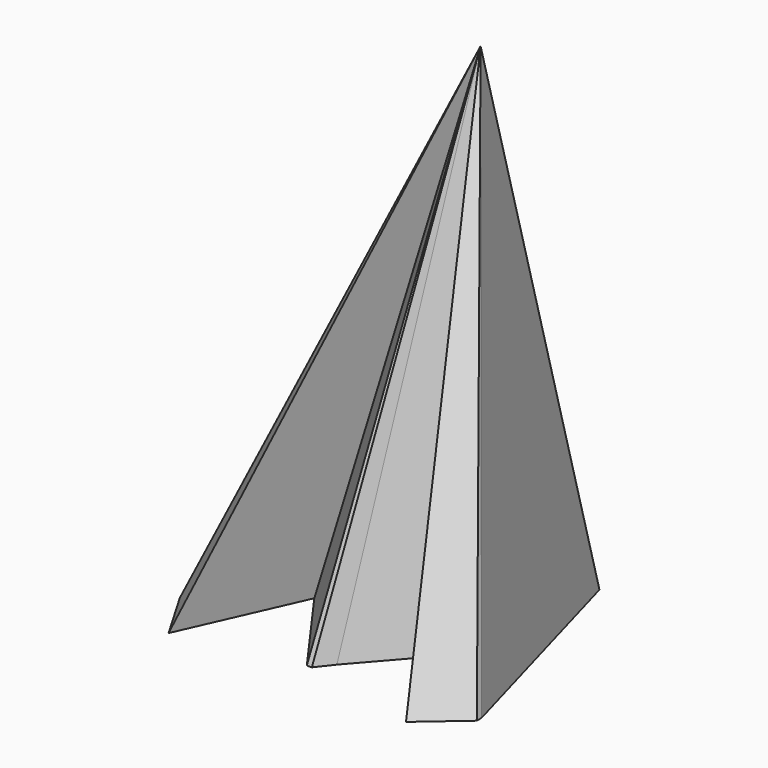
from build123d import *


with BuildPart() as f3:
    # F0 (on Top) → F3 section 0
    with BuildSketch(Plane.XY, mode=Mode.PRIVATE) as f3_s0:
        Polygon((-27.254099, 19.938527), (-40.737707, -23.668032), (-34.713116, -33.995904), (-24.385247, -10.758198), (-11.188525, -29.118853), (-10.19324, -29.112542), (-7.745903, -25.963115), (3.696825, -12.851658), (7.172131, -10.758198), (7.657201, -12.851658), (12.622951, -34.282789), (20.942623, -27.110657), (20.942623, -25.963115), (8.319672, 19.077869), (7.172131, 19.938527), (-9.538687, -11.029972), (-10.19324, -10.758198), align=None)
    loft([f3_s0.sketch, Vertex(0, 0, 100)])


solid = f3.part
